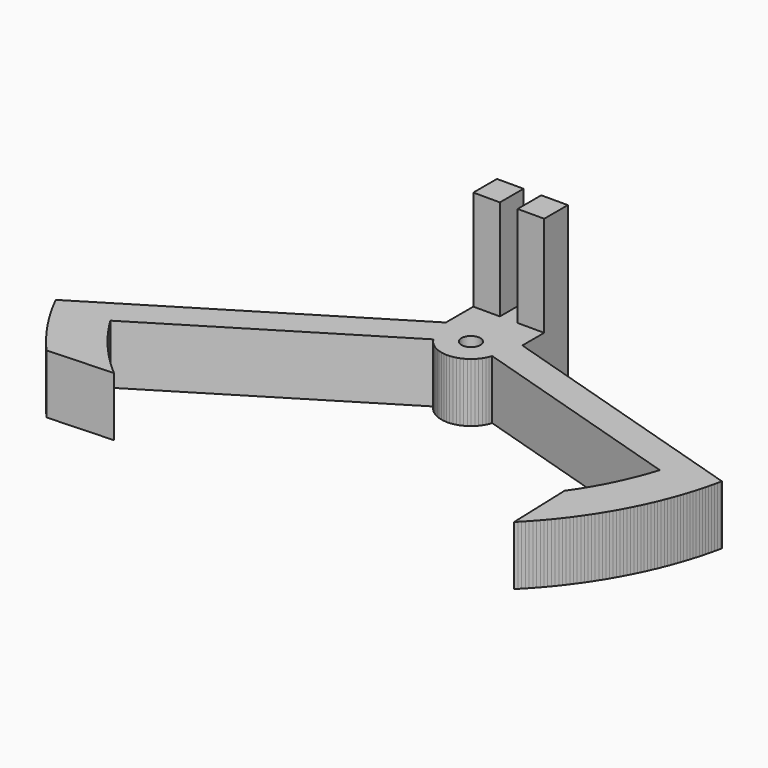
from build123d import *

# Parameters (mm, degrees)
F0_W     = 3
F0_H     = 5
F1_DEPTH = 10
F0_W_2   = 4.5
F2_DEPTH = 27


with BuildPart() as f1:
    # F0 (on Top) → F1 (new body)
    with BuildSketch(Plane.XY):
        with BuildLine():
            Line((-42.526665, -21.006821), (-31.489518, -20.520819))
            Line((-31.489518, -20.520819), (-31.868024, -20.194122))
            Line((-31.868024, -20.194122), (-32.243109, -19.863504))
            Line((-32.243109, -19.863504), (-32.614733, -19.528999))
            Line((-32.614733, -19.528999), (-32.982855, -19.190644))
            Line((-32.982855, -19.190644), (-33.347435, -18.848476))
            Line((-33.347435, -18.848476), (-33.708434, -18.502531))
            Line((-33.708434, -18.502531), (-34.065813, -18.152848))
            Line((-34.065813, -18.152848), (-34.419533, -17.799464))
            Line((-34.419533, -17.799464), (-34.769555, -17.442418))
            Line((-34.769555, -17.442418), (-35.115842, -17.081748))
            Line((-35.115842, -17.081748), (-35.458356, -16.717493))
            Line((-35.458356, -16.717493), (-35.797061, -16.349693))
            Line((-35.797061, -16.349693), (-36.131919, -15.978387))
            Line((-36.131919, -15.978387), (-36.462894, -15.603616))
            Line((-36.462894, -15.603616), (-36.78995, -15.22542))
            Line((-36.78995, -15.22542), (-37.113052, -14.843841))
            Line((-37.113052, -14.843841), (-37.432165, -14.45892))
            Line((-37.432165, -14.45892), (-37.747254, -14.070697))
            Line((-37.747254, -14.070697), (-38.058286, -13.679217))
            Line((-38.058286, -13.679217), (-38.365226, -13.28452))
            Line((-38.365226, -13.28452), (-38.668041, -12.886649))
            Line((-38.668041, -12.886649), (-38.966698, -12.485649))
            Line((-38.966698, -12.485649), (-39.261166, -12.081561))
            Line((-39.261166, -12.081561), (-39.551411, -11.674431))
            Line((-39.551411, -11.674431), (-39.837404, -11.264301))
            Line((-39.837404, -11.264301), (-40.119111, -10.851217))
            Line((-40.119111, -10.851217), (-40.396505, -10.435224))
            Line((-40.396505, -10.435224), (-40.669553, -10.016365))
            Line((-40.669553, -10.016365), (-40.938227, -9.594687))
            Line((-40.938227, -9.594687), (-41.202497, -9.170236))
            Line((-41.202497, -9.170236), (-41.250263, -9.092455))
            Line((-41.250263, -9.092455), (-4.555167, 13.394328))
            Line((-4.555167, 13.394328), (-4.273054, 12.98177))
            Line((-4.273054, 12.98177), (-3.951164, 12.599437))
            Line((-3.951164, 12.599437), (-3.592713, 12.251149))
            Line((-3.592713, 12.251149), (-3.201281, 11.940387))
            Line((-3.201281, 11.940387), (-2.780781, 11.670256))
            Line((-2.780781, 11.670256), (-2.335413, 11.443453))
            Line((-2.335413, 11.443453), (-1.869628, 11.262247))
            Line((-1.869628, 11.262247), (-1.388079, 11.128447))
            Line((-1.388079, 11.128447), (-0.895578, 11.043389))
            Line((-0.895578, 11.043389), (-0.397046, 11.007925))
            Line((-0.397046, 11.007925), (0.102535, 11.022408))
            Line((0.102535, 11.022408), (0.598176, 11.086694))
            Line((0.598176, 11.086694), (1.084922, 11.20014))
            Line((1.084922, 11.20014), (1.55791, 11.361613))
            Line((1.55791, 11.361613), (2.012416, 11.569499))
            Line((2.012416, 11.569499), (2.443896, 11.821722))
            Line((2.443896, 11.821722), (2.848041, 12.11576))
            Line((2.848041, 12.11576), (3.220812, 12.448677))
            Line((3.220812, 12.448677), (3.558485, 12.817145))
            Line((3.558485, 12.817145), (3.857685, 13.217484))
            Line((3.857685, 13.217484), (4.115423, 13.645693))
            Line((4.115423, 13.645693), (4.329123, 14.097493))
            Line((4.329123, 14.097493), (4.484697, 14.529158))
            Line((4.484697, 14.529158), (42.187019, 2.865925))
            Line((42.187019, 2.865925), (42.03657, 2.389099))
            Line((42.03657, 2.389099), (41.880769, 1.913996))
            Line((41.880769, 1.913996), (41.719635, 1.440674))
            Line((41.719635, 1.440674), (41.55319, 0.969194))
            Line((41.55319, 0.969194), (41.381453, 0.499616))
            Line((41.381453, 0.499616), (41.204447, 0.031998))
            Line((41.204447, 0.031998), (41.022194, -0.4336))
            Line((41.022194, -0.4336), (40.834718, -0.897118))
            Line((40.834718, -0.897118), (40.642041, -1.3585))
            Line((40.642041, -1.3585), (40.444188, -1.817686))
            Line((40.444188, -1.817686), (40.241184, -2.274618))
            Line((40.241184, -2.274618), (40.033055, -2.729238))
            Line((40.033055, -2.729238), (39.819828, -3.18149))
            Line((39.819828, -3.18149), (39.601528, -3.631315))
            Line((39.601528, -3.631315), (39.378185, -4.078657))
            Line((39.378185, -4.078657), (39.149825, -4.523459))
            Line((39.149825, -4.523459), (38.916478, -4.965666))
            Line((38.916478, -4.965666), (38.678173, -5.405221))
            Line((38.678173, -5.405221), (38.434941, -5.842068))
            Line((38.434941, -5.842068), (38.186812, -6.276152))
            Line((38.186812, -6.276152), (37.933818, -6.707419))
            Line((37.933818, -6.707419), (37.67599, -7.135814))
            Line((37.67599, -7.135814), (37.413362, -7.561283))
            Line((37.413362, -7.561283), (37.145966, -7.983772))
            Line((37.145966, -7.983772), (36.873836, -8.403227))
            Line((36.873836, -8.403227), (36.597007, -8.819596))
            Line((36.597007, -8.819596), (36.315513, -9.232825))
            Line((36.315513, -9.232825), (36.047189, -9.617642))
            Line((36.047189, -9.617642), (36.424159, -20.76382))
            Line((36.424159, -20.76382), (36.77627, -20.408832))
            Line((36.77627, -20.408832), (37.124948, -20.050473))
            Line((37.124948, -20.050473), (37.470162, -19.688775))
            Line((37.470162, -19.688775), (37.81188, -19.323772))
            Line((37.81188, -19.323772), (38.15007, -18.955498))
            Line((38.15007, -18.955498), (38.484701, -18.583987))
            Line((38.484701, -18.583987), (38.815741, -18.209274))
            Line((38.815741, -18.209274), (39.143161, -17.831392))
            Line((39.143161, -17.831392), (39.466929, -17.450378))
            Line((39.466929, -17.450378), (39.787017, -17.066265))
            Line((39.787017, -17.066265), (40.103393, -16.679091))
            Line((40.103393, -16.679091), (40.41603, -16.288891))
            Line((40.41603, -16.288891), (40.724897, -15.8957))
            Line((40.724897, -15.8957), (41.029967, -15.499555))
            Line((41.029967, -15.499555), (41.331211, -15.100494))
            Line((41.331211, -15.100494), (41.628601, -14.698552))
            Line((41.628601, -14.698552), (41.92211, -14.293768))
            Line((41.92211, -14.293768), (42.211711, -13.886178))
            Line((42.211711, -13.886178), (42.497376, -13.47582))
            Line((42.497376, -13.47582), (42.77908, -13.062732))
            Line((42.77908, -13.062732), (43.056795, -12.646954))
            Line((43.056795, -12.646954), (43.330497, -12.228522))
            Line((43.330497, -12.228522), (43.600161, -11.807476))
            Line((43.600161, -11.807476), (43.86576, -11.383854))
            Line((43.86576, -11.383854), (44.127271, -10.957697))
            Line((44.127271, -10.957697), (44.38467, -10.529043))
            Line((44.38467, -10.529043), (44.637932, -10.097933))
            Line((44.637932, -10.097933), (44.887034, -9.664405))
            Line((44.887034, -9.664405), (45.131953, -9.228501))
            Line((45.131953, -9.228501), (45.372667, -8.79026))
            Line((45.372667, -8.79026), (45.609152, -8.349723))
            Line((45.609152, -8.349723), (45.841388, -7.906931))
            Line((45.841388, -7.906931), (46.069352, -7.461925))
            Line((46.069352, -7.461925), (46.293024, -7.014746))
            Line((46.293024, -7.014746), (46.512383, -6.565436))
            Line((46.512383, -6.565436), (46.727409, -6.114036))
            Line((46.727409, -6.114036), (46.938081, -5.660587))
            Line((46.938081, -5.660587), (47.14438, -5.205133))
            Line((47.14438, -5.205133), (47.346287, -4.747715))
            Line((47.346287, -4.747715), (47.543783, -4.288375))
            Line((47.543783, -4.288375), (47.736851, -3.827156))
            Line((47.736851, -3.827156), (47.925472, -3.3641))
            Line((47.925472, -3.3641), (48.109628, -2.899251))
            Line((48.109628, -2.899251), (48.289303, -2.432652))
            Line((48.289303, -2.432652), (48.46448, -1.964346))
            Line((48.46448, -1.964346), (48.635143, -1.494375))
            Line((48.635143, -1.494375), (48.801276, -1.022784))
            Line((48.801276, -1.022784), (48.962864, -0.549617))
            Line((48.962864, -0.549617), (49.119891, -0.074916))
            Line((49.119891, -0.074916), (49.272343, 0.401273))
            Line((49.272343, 0.401273), (49.420207, 0.878907))
            Line((49.420207, 0.878907), (49.563468, 1.357942))
            Line((49.563468, 1.357942), (49.702112, 1.838334))
            Line((49.702112, 1.838334), (49.836128, 2.320037))
            Line((49.836128, 2.320037), (49.965503, 2.803007))
            Line((49.965503, 2.803007), (50.090225, 3.287199))
            Line((50.090225, 3.287199), (50.210281, 3.77257))
            Line((50.210281, 3.77257), (50.325662, 4.259073))
            Line((50.325662, 4.259073), (50.436357, 4.746664))
            Line((50.436357, 4.746664), (50.542355, 5.235297))
            Line((50.542355, 5.235297), (50.597307, 5.497977))
            Line((50.597307, 5.497977), (5.708034, 19.384497))
            Line((5.708034, 19.384497), (5.708034, 15.006821))
            Line((5.708034, 15.006821), (0.957034, 15.006821))
            ThreePointArc((0.957034, 15.006821), (-0.291966, 14.406821), (-1.540966, 15.006821))
            Line((-1.540966, 15.006821), (-6.291966, 15.006821))
            Line((-6.291966, 15.006821), (-6.291966, 18.194155))
            Line((-6.291966, 18.194155), (-50.597307, -8.956193))
            Line((-50.597307, -8.956193), (-50.373062, -9.403085))
            Line((-50.373062, -9.403085), (-50.144846, -9.847963))
            Line((-50.144846, -9.847963), (-49.912678, -10.29079))
            Line((-49.912678, -10.29079), (-49.676577, -10.731534))
            Line((-49.676577, -10.731534), (-49.436562, -11.170158))
            Line((-49.436562, -11.170158), (-49.192651, -11.606627))
            Line((-49.192651, -11.606627), (-48.944863, -12.040908))
            Line((-48.944863, -12.040908), (-48.693219, -12.472965))
            Line((-48.693219, -12.472965), (-48.437738, -12.902765))
            Line((-48.437738, -12.902765), (-48.17844, -13.330273))
            Line((-48.17844, -13.330273), (-47.915347, -13.755455))
            Line((-47.915347, -13.755455), (-47.648478, -14.178279))
            Line((-47.648478, -14.178279), (-47.377856, -14.598709))
            Line((-47.377856, -14.598709), (-47.103501, -15.016714))
            Line((-47.103501, -15.016714), (-46.825435, -15.432259))
            Line((-46.825435, -15.432259), (-46.543681, -15.845312))
            Line((-46.543681, -15.845312), (-46.25826, -16.25584))
            Line((-46.25826, -16.25584), (-45.969195, -16.663811))
            Line((-45.969195, -16.663811), (-45.67651, -17.069192))
            Line((-45.67651, -17.069192), (-45.380227, -17.471951))
            Line((-45.380227, -17.471951), (-45.08037, -17.872056))
            Line((-45.08037, -17.872056), (-44.776963, -18.269475))
            Line((-44.776963, -18.269475), (-44.470029, -18.664178))
            Line((-44.470029, -18.664178), (-44.159594, -19.056132))
            Line((-44.159594, -19.056132), (-43.845681, -19.445307))
            Line((-43.845681, -19.445307), (-43.528316, -19.831671))
            Line((-43.528316, -19.831671), (-43.207523, -20.215195))
            Line((-43.207523, -20.215195), (-42.883328, -20.595847))
            Line((-42.883328, -20.595847), (-42.555757, -20.973598))
            Line((-42.555757, -20.973598), (-42.526665, -21.006821))
        make_face()
        with BuildLine():
            Line((-2.904459, 20.270022), (-6.291966, 18.194155))
            Line((-6.291966, 18.194155), (-6.291966, 15.006821))
            Line((-6.291966, 15.006821), (-1.540966, 15.006821))
            ThreePointArc((-1.540966, 15.006821), (-0.821872, 17.516523), (1.308034, 16.006821))
            ThreePointArc((1.308034, 16.006821), (1.217736, 15.476915), (0.957034, 15.006821))
            Line((0.957034, 15.006821), (5.708034, 15.006821))
            Line((5.708034, 15.006821), (5.708034, 19.384497))
            Line((5.708034, 19.384497), (1.185697, 20.783484))
            Line((1.185697, 20.783484), (0.701444, 20.907141))
            Line((0.701444, 20.907141), (0.207266, 20.981835))
            Line((0.207266, 20.981835), (-0.291901, 21.006821))
            Line((-0.291901, 21.006821), (-0.791068, 20.981848))
            Line((-0.791068, 20.981848), (-1.285249, 20.907167))
            Line((-1.285249, 20.907167), (-1.769505, 20.783523))
            Line((-1.769505, 20.783523), (-2.238998, 20.612151))
            Line((-2.238998, 20.612151), (-2.689037, 20.394765))
            Line((-2.689037, 20.394765), (-2.904459, 20.270022))
        make_face()
        Polygon((-6.291966, 24.006821), (-6.291966, 18.194155), (-2.904459, 20.270022), (-2.689037, 20.394765), (-2.238998, 20.612151), (-1.769505, 20.783523), (-1.285249, 20.907167), (-0.791068, 20.981848), (-0.291901, 21.006821), (0.207266, 20.981835), (0.701444, 20.907141), (1.185697, 20.783484), (5.708034, 19.384497), (5.708034, 24.006821), (1.208034, 24.006821), (-1.791966, 24.006821), align=None)
        with Locations((-0.291966, 26.506821)):
            Rectangle(F0_W, F0_H)
    extrude(amount=F1_DEPTH)

    # F0 (on Top) → F2 (join)
    with BuildSketch(Plane.XY):
        with Locations((-4.041966, 26.506821)):
            Rectangle(F0_W_2, F0_H)
        with Locations((3.458034, 26.506821)):
            Rectangle(F0_W_2, F0_H)
    extrude(amount=F2_DEPTH)


solid = f1.part
